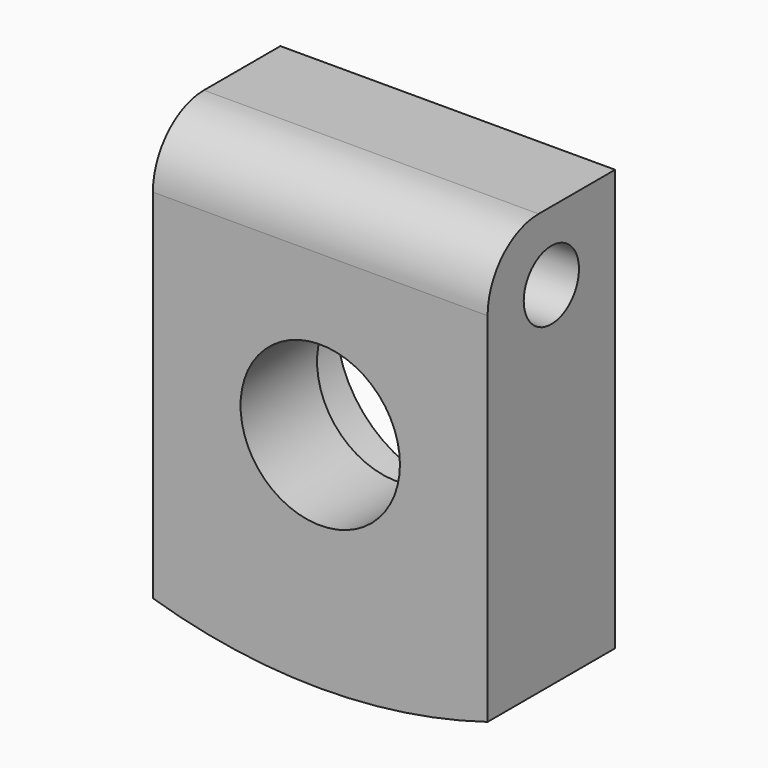
from build123d import *

# Parameters (mm, degrees)
F1_DEPTH       = 30
F3_D           = 30
F3_CBORE_D     = 42
F3_CBORE_DEPTH = 12
F5_R           = 12
F6_D           = 13


with BuildPart() as f1:
    # F0 (on Front) → F1 (new body)
    with BuildSketch(Plane.XZ):
        with BuildLine():
            Line((31.5, 52.105192), (-31.5, 52.105192))
            Line((-31.5, 52.105192), (-31.5, -27.19897))
            ThreePointArc((-31.5, -27.19897), (0, -31.894808), (31.5, -27.19897))
            Line((31.5, -27.19897), (31.5, 52.105192))
        make_face()
    extrude(amount=F1_DEPTH)

    # F3 (through all)
    with Locations(Plane(origin=(0, 0, 0), x_dir=(-1, 0, 0), z_dir=(0, 1, 0))):
        with Locations((0, 10.105192)):
            CounterBoreHole(F3_D / 2, F3_CBORE_D / 2, F3_CBORE_DEPTH)

    # F5
    f5_edges = [f1.edges().sort_by_distance(p)[0] for p in [
        (0, -30, 52.105192),
    ]]
    fillet(f5_edges, radius=F5_R)

    # F6 (through all)
    with Locations(Plane.YZ.offset(31.5)):
        with Locations((-15, 39.105192)):
            Hole(F6_D / 2)


solid = f1.part
